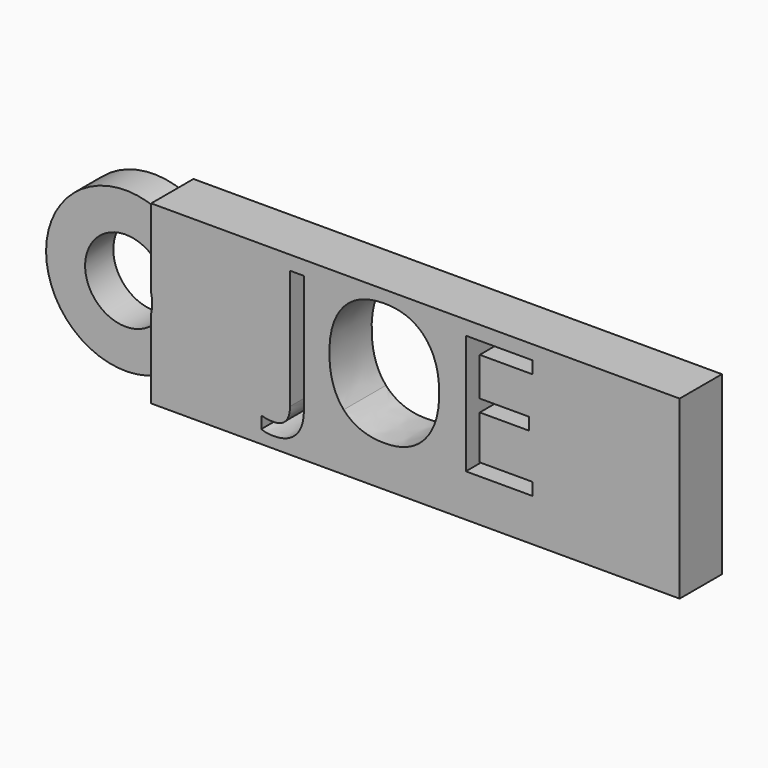
from build123d import *

# Parameters (mm, degrees)
F1_DEPTH = 15
F2_DEPTH = 10


with BuildPart() as f1:
    # F0 (on Front) → F1 (new body)
    with BuildSketch(Plane.XZ):
        with BuildLine():
            Line((-150, 0), (0, 0))
            Line((0, 0), (0, 50))
            Line((0, 50), (-150, 50))
            Line((-150, 50), (-150, 44.6036947758))
            Line((-150, 44.6036947758), (-150, 27.5289733242))
            ThreePointArc((-150, 27.5289733242), (-149.78939418, 26.2722736231), (-149.7189046187, 25))
            ThreePointArc((-149.7189046187, 25), (-149.78939418, 23.7277263769), (-150, 22.4710266758))
            Line((-150, 22.4710266758), (-150, 5.3963052242))
            Line((-150, 5.3963052242), (-150, 0))
        make_face()
        with BuildLine():
            add(Edge.make_bspline(
                [(-108.8792543819, 5.5825479955), (-111.1049800612, 3.1602165479), (-115.2819252527, 3.1602165479)],
                knots=[0, 0, 0, 1, 1, 1], degree=2))
            add(Edge.make_bspline(
                [(-115.2819252527, 3.1602165479), (-117.4557173328, 3.1602165479), (-118.7095427989, 3.7834197381)],
                knots=[0, 0, 0, 1, 1, 1], degree=2))
            Line((-118.7095427989, 3.7834197381), (-118.7095427989, 7.1442655139))
            add(Edge.make_bspline(
                [(-118.7095427989, 7.1442655139), (-117.0625057962, 6.6842822068), (-115.2819252527, 6.6842822068)],
                knots=[0, 0, 0, 1, 1, 1], degree=2))
            add(Edge.make_bspline(
                [(-115.2819252527, 6.6842822068), (-112.9820087174, 6.6842822068), (-111.7875359362, 8.0753607564)],
                knots=[0, 0, 0, 1, 1, 1], degree=2))
            add(Edge.make_bspline(
                [(-111.7875359362, 8.0753607564), (-110.593063155, 9.4664393059), (-110.593063155, 12.0853765219)],
                knots=[0, 0, 0, 1, 1, 1], degree=2))
            Line((-110.593063155, 12.0853765219), (-110.593063155, 45.9831786178))
            Line((-110.593063155, 45.9831786178), (-106.6535287026, 45.9831786178))
            Line((-106.6535287026, 45.9831786178), (-106.6535287026, 12.4118162882))
            add(Edge.make_bspline(
                [(-106.6535287026, 12.4118162882), (-106.6535287026, 8.0048794432), (-108.8792543819, 5.5825479955)],
                knots=[0, 0, 0, 1, 1, 1], degree=2))
        make_face(mode=Mode.SUBTRACT)
        with BuildLine():
            add(Edge.make_bspline(
                [(-72.3402578132, 41.8804242823), (-68.2375034777, 37.2434957837), (-68.2375034777, 29.0825016263)],
                knots=[0, 0, 0, 1, 1, 1], degree=2))
            add(Edge.make_bspline(
                [(-68.2375034777, 29.0825016263), (-68.2375034777, 20.9437647256), (-72.3550959844, 16.2808694274)],
                knots=[0, 0, 0, 1, 1, 1], degree=2))
            add(Edge.make_bspline(
                [(-72.3550959844, 16.2808694274), (-76.4726884911, 11.6179741293), (-83.7953259761, 11.6179741293)],
                knots=[0, 0, 0, 1, 1, 1], degree=2))
            add(Edge.make_bspline(
                [(-83.7953259761, 11.6179741293), (-91.2811833442, 11.6179741293), (-95.3505517945, 16.1992594859)],
                knots=[0, 0, 0, 1, 1, 1], degree=2))
            add(Edge.make_bspline(
                [(-95.3505517945, 16.1992594859), (-99.4199202448, 20.7805448424), (-99.4199202448, 29.1270161398)],
                knots=[0, 0, 0, 1, 1, 1], degree=2))
            add(Edge.make_bspline(
                [(-99.4199202448, 29.1270161398), (-99.4199202448, 37.4067156669), (-95.3394231661, 41.9620342239)],
                knots=[0, 0, 0, 1, 1, 1], degree=2))
            add(Edge.make_bspline(
                [(-95.3394231661, 41.9620342239), (-91.2589260874, 46.5173527809), (-83.7508114625, 46.5173527809)],
                knots=[0, 0, 0, 1, 1, 1], degree=2))
            add(Edge.make_bspline(
                [(-83.7508114625, 46.5173527809), (-76.4430121488, 46.5173527809), (-72.3402578132, 41.8804242823)],
                knots=[0, 0, 0, 1, 1, 1], degree=2))
        make_face(mode=Mode.SUBTRACT)
        Polygon((-41.7884633219, 15.6094421808), (-41.7884633219, 12.0853765219), (-60.6848743392, 12.0853765219), (-60.6848743392, 45.9831786178), (-41.7884633219, 45.9831786178), (-41.7884633219, 42.4813702157), (-56.7453398869, 42.4813702157), (-56.7453398869, 31.5604762159), (-42.6935917648, 31.5604762159), (-42.6935917648, 28.0809250706), (-56.7453398869, 28.0809250706), (-56.7453398869, 15.6094421808), align=None, mode=Mode.SUBTRACT)
    extrude(amount=F1_DEPTH)

    # F0 (on Front) → F2 (join)
    with BuildSketch(Plane.XZ):
        with BuildLine():
            ThreePointArc((-150, 44.6036947758), (-183.8311862448, 25), (-150, 5.3963052242))
            Line((-150, 5.3963052242), (-150, 22.4710266758))
            ThreePointArc((-150, 22.4710266758), (-172.7527967389, 25), (-150, 27.5289733242))
            Line((-150, 27.5289733242), (-150, 44.6036947758))
        make_face()
    extrude(amount=F2_DEPTH)


solid = f1.part
